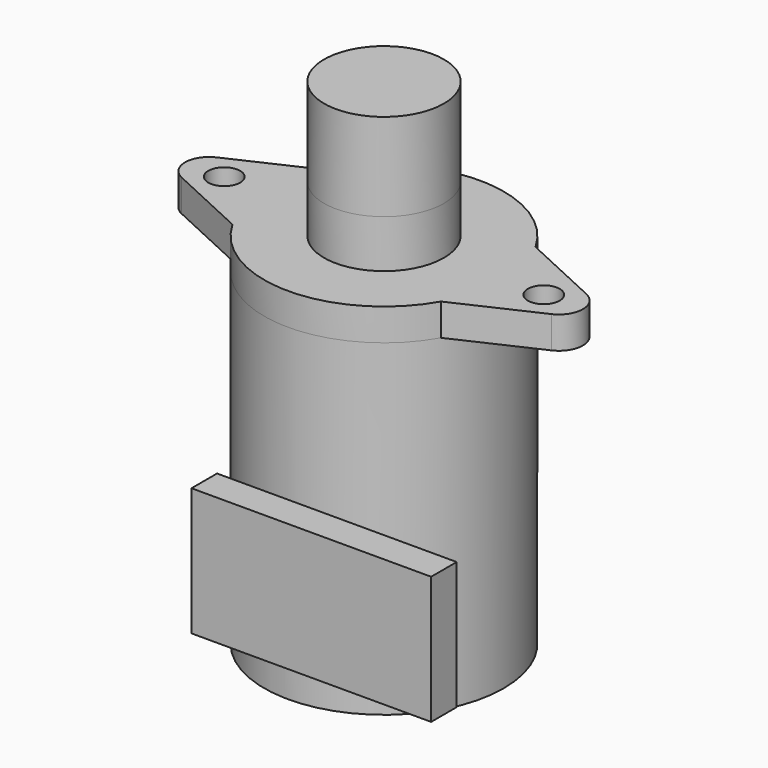
from build123d import *

# Parameters (mm, degrees)
F0_R      = 7.5
F3_DEPTH  = 20.5
F4_R      = 1
F4_R_2    = 3.75
F5_DEPTH  = 2
F6_R      = 3.75
F7_DEPTH  = 3
F8_R      = 3.75
F9_DEPTH  = 31
F13_W     = 15
F13_H     = 8
F14_DEPTH = 2


with BuildPart() as f3:
    # F0 (on Top) → F3 (new body, through all)
    with BuildSketch(Plane.XY):
        Circle(F0_R)
    extrude(amount=F3_DEPTH)

    # F4 (on offset) → F5 (join)
    with BuildSketch(Plane.XY.offset(20.5)):
        with BuildLine():
            Line((-6.5238025721, 3.7), (-11.5797156113, 1.3614177349))
            ThreePointArc((-11.5797156113, 1.3614177349), (-12.45, 0), (-11.5797156113, -1.3614177349))
            Line((-11.5797156113, -1.3614177349), (-6.5238025721, -3.7))
            ThreePointArc((-6.5238025721, -3.7), (-7.5, 0), (-6.5238025721, 3.7))
        make_face()
        with Locations((-10, 0)):
            Circle(F4_R, mode=Mode.SUBTRACT)
        with BuildLine():
            ThreePointArc((6.5238025721, 3.7), (0, 7.5), (-6.5238025721, 3.7))
            ThreePointArc((-6.5238025721, 3.7), (-7.5, 0), (-6.5238025721, -3.7))
            ThreePointArc((-6.5238025721, -3.7), (0, -7.5), (6.5238025721, -3.7))
            ThreePointArc((6.5238025721, -3.7), (7.251845258, -1.9133061319), (7.5, 0))
            ThreePointArc((7.5, 0), (7.251845258, 1.9133061319), (6.5238025721, 3.7))
        make_face()
        Circle(F4_R_2, mode=Mode.SUBTRACT)
        with BuildLine():
            Line((11.5797156113, 1.3614177349), (6.5238025721, 3.7))
            ThreePointArc((6.5238025721, 3.7), (7.251845258, 1.9133061319), (7.5, 0))
            ThreePointArc((7.5, 0), (7.251845258, -1.9133061319), (6.5238025721, -3.7))
            Line((6.5238025721, -3.7), (11.5797156113, -1.3614177349))
            ThreePointArc((11.5797156113, -1.3614177349), (12.45, 0), (11.5797156113, 1.3614177349))
        make_face()
        with Locations((10, 0)):
            Circle(F4_R, mode=Mode.SUBTRACT)
        Circle(F4_R_2)
    extrude(amount=F5_DEPTH)

    # F6 (on face) → F7 (join)
    with BuildSketch(Plane.XY.offset(22.5)):
        Circle(F6_R)
    extrude(amount=F7_DEPTH)


with BuildPart() as f9:
    # F8 (on face) → F9 (new body)
    with BuildSketch(Plane(origin=(0, 0, 0), x_dir=(1, 0, 0), z_dir=(0, 0, -1))):
        Circle(F8_R)
    extrude(amount=-F9_DEPTH)

    # F10: cut F3
    add(f3.part, mode=Mode.SUBTRACT)


with BuildPart() as f3_1:
    add(f3.part)

    # F13 (on line) → F14 (join)
    with BuildSketch(Plane(origin=(0, -7.5, 0), x_dir=(-1, 0, 0), z_dir=(0, 1, 0))):
        with Locations((-3.05, 7)):
            Rectangle(F13_W, F13_H)
    extrude(amount=-F14_DEPTH)


solid = Compound([f9.part, f3_1.part])
